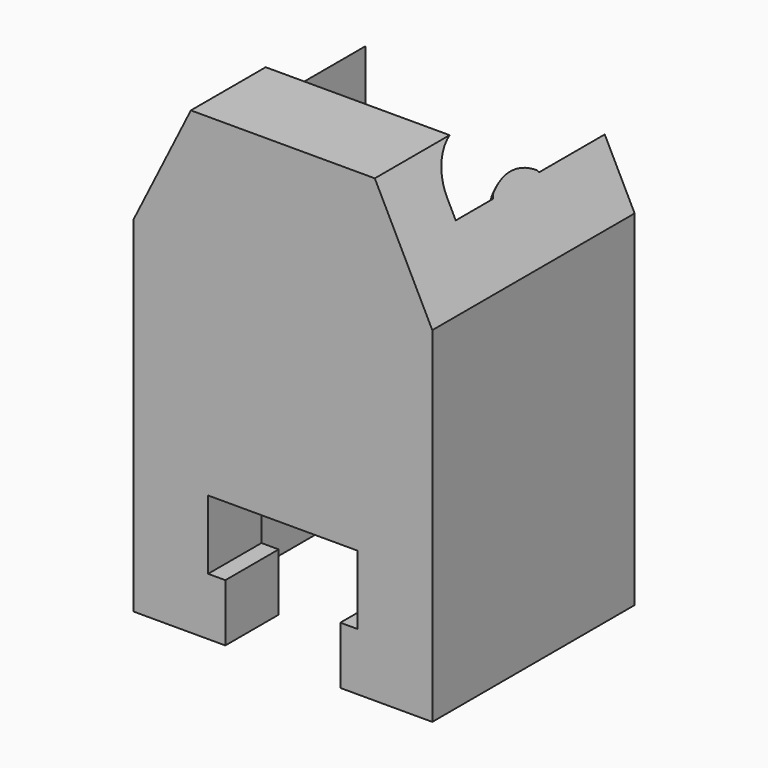
from build123d import *

# Parameters (mm, degrees)
SKETCH256_R             = 1.45
PAD243_DEPTH            = 10.4
SKETCH257_W             = 2.9
SKETCH257_H             = 4.1
PAD244_DEPTH            = 3
SKETCH258_W             = 0.8
SKETCH258_H             = 6.4
PAD245_DEPTH            = 10
PAD246_DEPTH            = 3
BODY085_PLACEMENT_ANGLE = 90
PAD242_DEPTH            = 11


with BuildPart() as body086:
    # Sketch260 → Revolution010 (revolve)
    with BuildSketch(Plane.XY):
        Polygon((5.19, 1.5), (-5.19, 1.5), (-4.79, 0.928741), (-4.79, 0), (4.79, 0), (4.79, 0.928741), align=None)
    revolve(axis=Axis((0, 0, 0), (1, 0, 0)))


with BuildPart() as body086_1:
    # Body086 placement: moved
    add(body086.part.moved(Location((9.65, -4.84, 10.9))))


with BuildPart() as switch039:
    # Sketch256 → Pad243 (new body)
    with BuildSketch(Plane.XY):
        with BuildLine():
            ThreePointArc((-12.35, 8.1), (-13.587437, 7.587437), (-14.1, 6.35))
            Line((-14.1, -6.35), (-14.1, 6.35))
            ThreePointArc((-14.1, -6.35), (-13.587437, -7.587437), (-12.35, -8.1))
            Line((12.35, -8.1), (-12.35, -8.1))
            ThreePointArc((12.35, -8.1), (13.587437, -7.587437), (14.1, -6.35))
            Line((14.1, 6.35), (14.1, -6.35))
            ThreePointArc((14.1, 6.35), (13.587437, 7.587437), (12.35, 8.1))
            Line((-12.35, 8.1), (12.35, 8.1))
        make_face()
        with Locations((10.877931, -4.825)):
            Circle(SKETCH256_R, mode=Mode.SUBTRACT)
        with Locations((-10.877931, 4.825)):
            Circle(SKETCH256_R, mode=Mode.SUBTRACT)
    extrude(amount=PAD243_DEPTH)

    # Sketch257 (on Face8 of Pad243) → Pad244 (join)
    with BuildSketch(Plane(origin=(0, 8.1, 0), x_dir=(-1, 0, 0), z_dir=(0, 1, 0))):
        with Locations((-9.45, 5.2)):
            Rectangle(SKETCH257_W, SKETCH257_H)
    extrude(amount=PAD244_DEPTH)

    # Sketch258 (on Face3 of Pad244) → Pad245 (join)
    with BuildSketch(Plane(origin=(-14.1, 0, 0), x_dir=(0, -1, 0), z_dir=(-1, 0, 0))):
        with Locations((4.3, 5.2)):
            Rectangle(SKETCH258_W, SKETCH258_H)
    extrude(amount=PAD245_DEPTH)

    # Sketch259 (on Face16 of Pad245) → Pad246 (join)
    with BuildSketch(Plane.XZ.offset(8.1)):
        Polygon((-3.5, 8.45), (-0.5, 8.45), (-0.5, 1.95), (-3.5, 1.95), (-3.5, 2.7), (-9.5, 2.7), (-9.5, 7.7), (-3.5, 7.7), align=None)
    extrude(amount=PAD246_DEPTH)


with BuildPart() as switch039_1:
    # Body085 placement: moved
    add(switch039.part.moved(Location((14.15, 0, 0))).rotate(Axis((14.15, 0, 0), (0, -1, 0)), BODY085_PLACEMENT_ANGLE))


with BuildPart() as cut028:
    # Sketch255 → Pad242 (new body)
    with BuildSketch(Plane.XZ):
        Polygon((-4, 7.5), (4, 7.5), (6.5, 2.5), (6.5, -12.5), (-6.5, -12.5), (-6.5, 2.5), align=None)
    extrude(amount=PAD242_DEPTH)


with BuildPart() as cut028_1:
    # Body084 placement: moved
    add(cut028.part.moved(Location((8.95, 0, 6.5))))

    # Cut027: cut switch039
    add(switch039_1.part, mode=Mode.SUBTRACT)


with BuildPart() as cut028_2:
    # Cut027 placement: moved
    add(cut028_1.part.moved(Location((0.7, 0, 0))))

    # Cut028: cut Body086
    add(body086_1.part, mode=Mode.SUBTRACT)


solid = cut028_2.part
